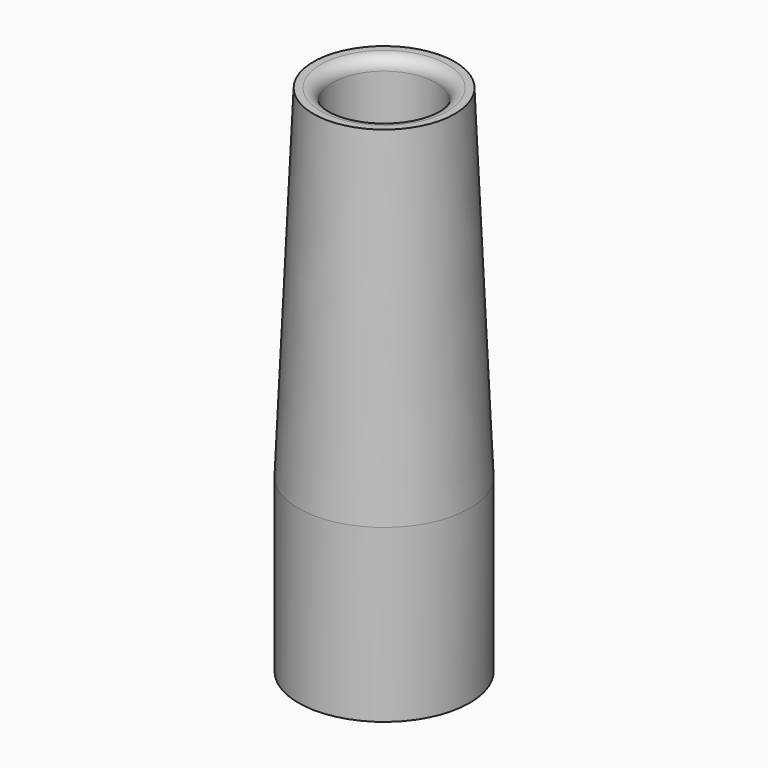
from build123d import *

# Parameters (mm, degrees)
F2_R = 0.7


with BuildPart() as f1:
    # F0 (on Front) → F1 (revolve)
    with BuildSketch(Plane.XZ):
        Polygon((3, 0), (5, 0), (5, 10), (4.126781, 30), (3, 30), align=None)
    revolve(axis=Axis((0, 0, 14.23695), (0, 0, 1)))

    # F2
    f2_edges = [f1.edges().sort_by_distance(p)[0] for p in [
        (-3, 0, 30),
    ]]
    fillet(f2_edges, radius=F2_R)


solid = f1.part
